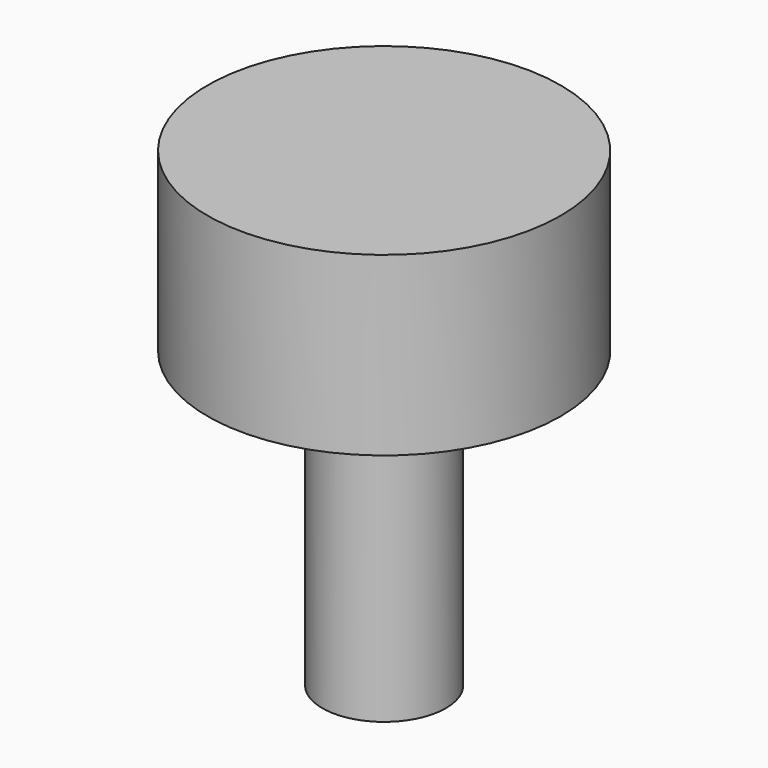
from build123d import *

# Parameters (mm, degrees)
CYLINDER021_R     = 6
CYLINDER021_DEPTH = 6
CYLINDER020_R     = 2.1
CYLINDER020_DEPTH = 10


with BuildPart() as cylinder021:
    # Cylinder021 → Cylinder021 (new body)
    with BuildSketch(Plane.XY.offset(10)):
        Circle(CYLINDER021_R)
    extrude(amount=CYLINDER021_DEPTH)


with BuildPart() as fusion004:
    # Cylinder020 → Cylinder020 (new body)
    with BuildSketch(Plane.XY):
        Circle(CYLINDER020_R)
    extrude(amount=CYLINDER020_DEPTH)

    # Fusion004: union Cylinder021
    add(cylinder021.part)


with BuildPart() as fusion004_1:
    # Fusion004 placement: moved
    add(fusion004.part.moved(Location((-7, 12, -7))))


solid = fusion004_1.part
